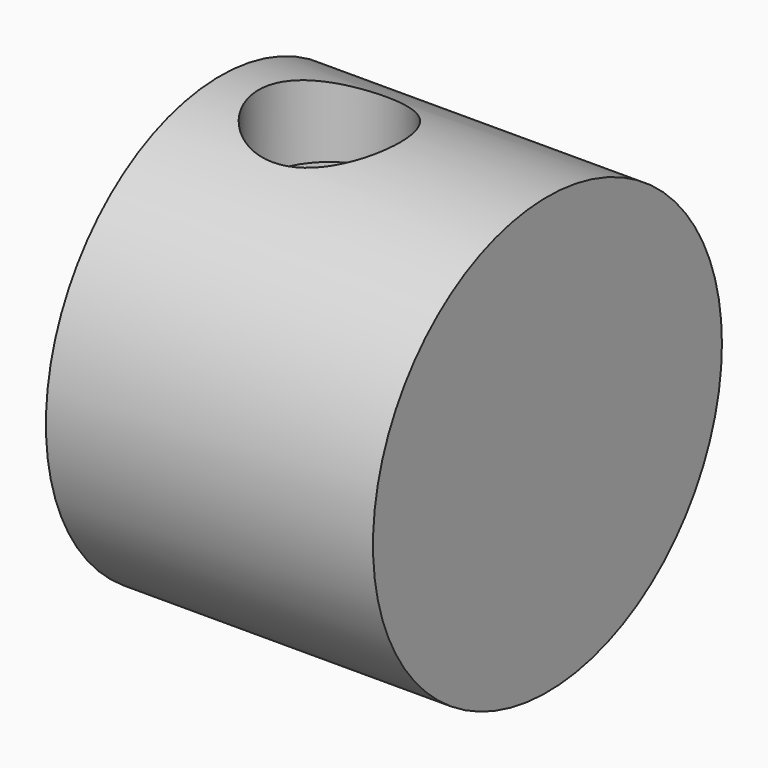
from build123d import *

# Parameters (mm, degrees)
F0_R           = 10
F1_DEPTH       = 15
F2_D           = 10
F2_DEPTH       = 8
F2_TIP         = 3.0043030951
F6_D           = 2.5
F6_DEPTH       = 18
F6_START       = 0.5428599
F6_CBORE_D     = 6.5
F6_CBORE_DEPTH = 3
F6_TIP         = 0.7510757738


with BuildPart() as f1:
    # F0 (on Right) → F1 (new body)
    with BuildSketch(Plane.YZ):
        Circle(F0_R)
    extrude(amount=F1_DEPTH)

    # F2
    with Locations(Plane(origin=(0, 0, 0), x_dir=(0, 1, 0), z_dir=(-1, 0, 0))):
        with Locations((0, 0)):
            Hole(F2_D / 2, depth=F2_DEPTH)
            with Locations((0, 0, -(F2_DEPTH + F2_TIP / 2))):  # 118° drill point
                Cone(0, F2_D / 2, F2_TIP, mode=Mode.SUBTRACT)

    # F6
    # its depths count from where the whole tool has entered the part; down to there all is cleared
    with Locations(Plane.XY.offset(10).offset(-F6_START)):
        with Locations((5, 0)):
            CounterBoreHole(F6_D / 2, F6_CBORE_D / 2, F6_CBORE_DEPTH, depth=F6_DEPTH)
            with Locations((0, 0, -(F6_DEPTH + F6_TIP / 2))):  # 118° drill point
                Cone(0, F6_D / 2, F6_TIP, mode=Mode.SUBTRACT)


solid = f1.part
